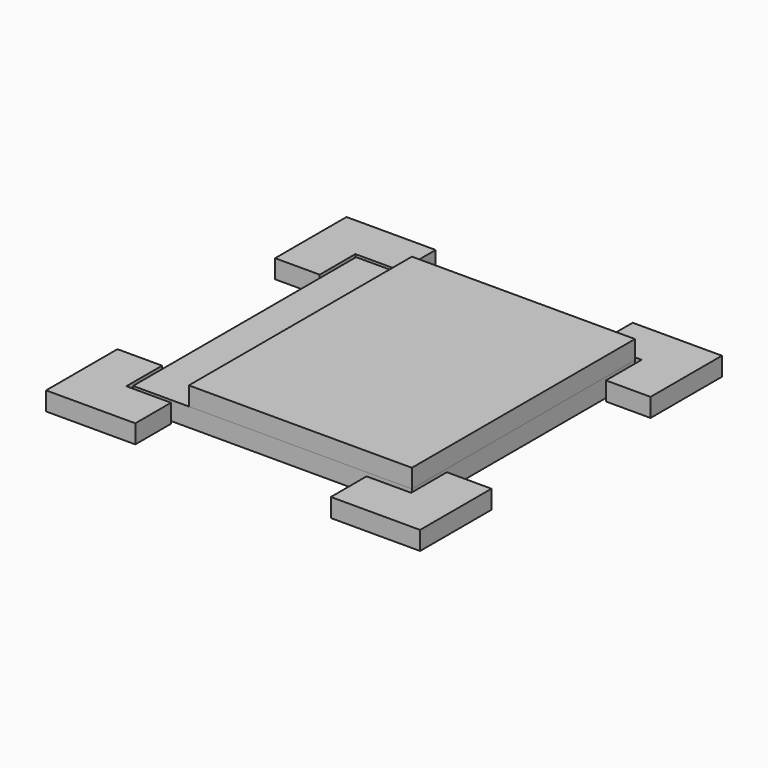
from build123d import *

# Parameters (mm, degrees)
F0_W     = 75
F0_H     = 75
F1_DEPTH = 5
F2_W     = 60
F2_H     = 75
F3_DEPTH = 5


with BuildPart() as f1:
    # F0 (on Top) → F1 (new body)
    with BuildSketch(Plane.XY):
        with Locations((37.5, -37.5)):
            Rectangle(F0_W, F0_H)
        Polygon((64, 13), (64, 1), (76, 1), (76, -11), (88, -11), (88, 13), align=None)
        Polygon((-1, -76), (-1, -64), (-13, -64), (-13, -88), (11, -88), (11, -76), align=None)
        Polygon((-1, -11), (-1, 1), (11, 1), (11, 13), (-13, 13), (-13, -11), align=None)
        Polygon((76, -64.494634), (76, -76.494634), (64, -76.494634), (64, -88.494634), (88, -88.494634), (88, -64.494634), align=None)
    extrude(amount=F1_DEPTH)


with BuildPart() as f3:
    # F2 (on face) → F3 (new body)
    with BuildSketch(Plane.XY.offset(5)):
        with Locations((45, -37.5)):
            Rectangle(F2_W, F2_H)
    extrude(amount=F3_DEPTH)


solid = Compound([f1.part, f3.part])
